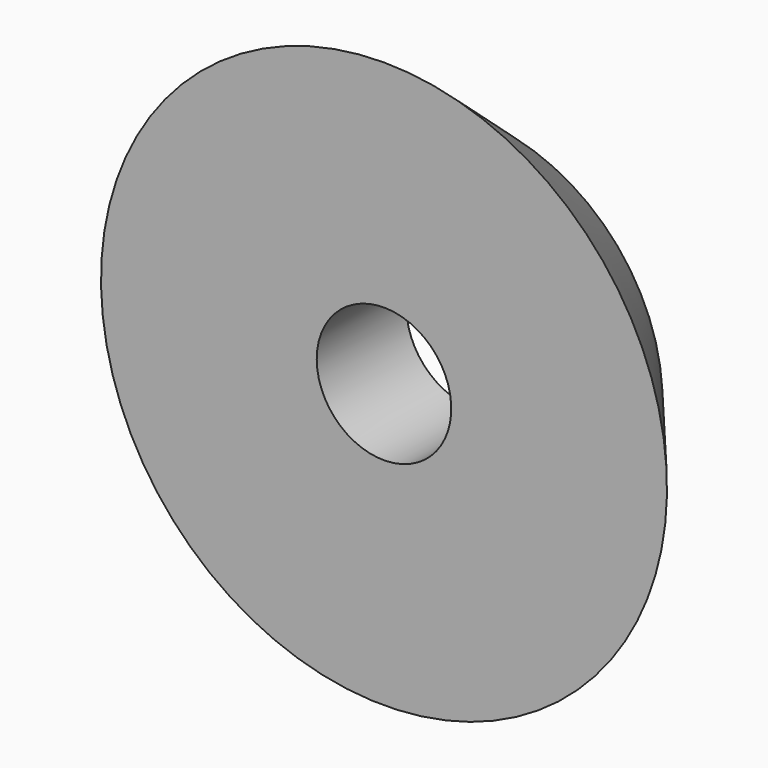
from build123d import *

# Parameters (mm, degrees)
CYLINDER_R          = 1.5
CYLINDER_DEPTH      = 10
CYLINDER_ROLL_ANGLE = 90
CUT_PLACEMENT_ANGLE = 180


with BuildPart() as cylinder:
    # Cylinder → Cylinder (new body)
    with BuildSketch(Plane.XY):
        Circle(CYLINDER_R)
    extrude(amount=CYLINDER_DEPTH)


with BuildPart() as cylinder_1:
    # Cylinder roll: moved
    add(cylinder.part.rotate(Axis((0, 0, 0), (1, 0, 0)), CYLINDER_ROLL_ANGLE))


with BuildPart() as cylinder_2:
    # Cylinder placement: moved
    add(cylinder_1.part.moved(Location((0, 5, 0))))


with BuildPart() as innerbearing:
    # Sketch004 → Revolution (revolve)
    with BuildSketch(Plane.YZ):
        Polygon((0, 4.213446), (2.5, 6.311195), (2.5, 0), (0, 0), align=None)
    revolve(axis=Axis((0, 0, 0), (0, 1, 0)))

    # Cut: cut Cylinder
    add(cylinder_2.part, mode=Mode.SUBTRACT)


with BuildPart() as innerbearing_1:
    # Cut placement: moved
    add(innerbearing.part.rotate(Axis((0, 0, 0), (0, 0, 1)), CUT_PLACEMENT_ANGLE))


solid = innerbearing_1.part
